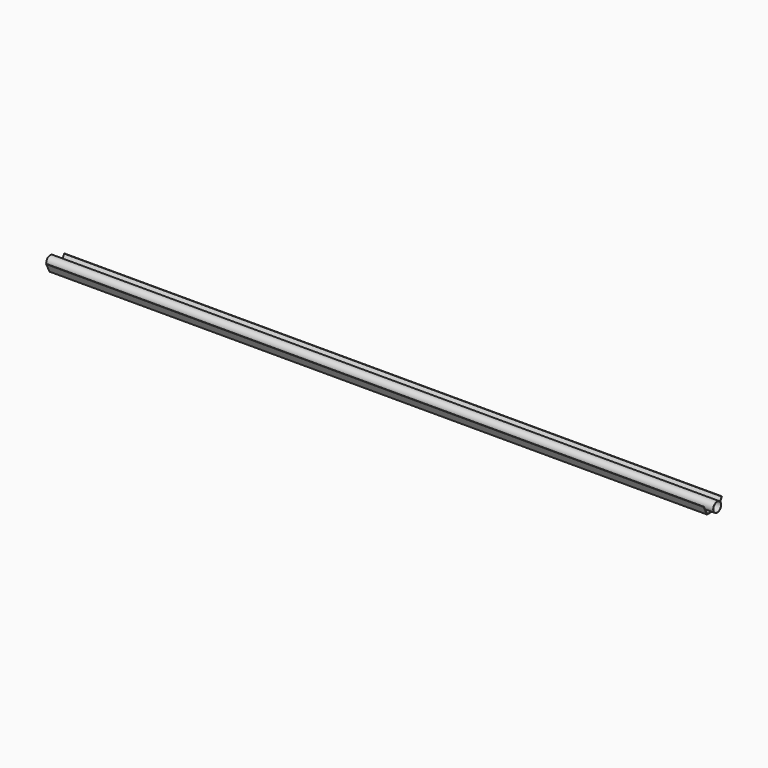
from build123d import *

# Parameters (mm, degrees)
F1_DEPTH = 1725
F2_R     = 26
F2_R_2   = 25
F3_DEPTH = 1750


with BuildPart() as f1:
    # F0 (on Right) → F1 (new body, symmetric)
    with BuildSketch(Plane.YZ):
        Polygon((-58.252042, 16.136102), (-35.441691, -28.357581), (39.558309, -28.357581), (62.36866, 16.136102), (60.12115, 16.136102), (38.336129, -26.357581), (-34.219511, -26.357581), (-56.004532, 16.136102), align=None)
    extrude(amount=F1_DEPTH, both=True)


with BuildPart() as f3:
    # F2 (on Right) → F3 (new body, symmetric)
    with BuildSketch(Plane.YZ):
        Circle(F2_R)
        Circle(F2_R_2, mode=Mode.SUBTRACT)
    extrude(amount=F3_DEPTH, both=True)


solid = Compound([f1.part, f3.part])
